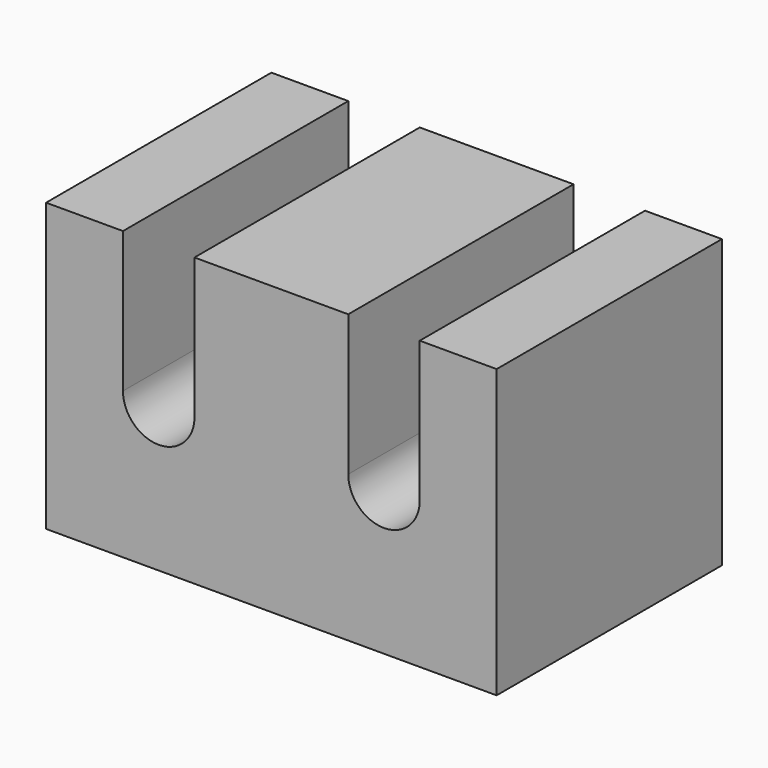
from build123d import *

# Parameters (mm, degrees)
F0_W     = 8
F0_H     = 5
F1_DEPTH = 5.1
F3_DEPTH = 25


with BuildPart() as f1:
    # F0 (on Top) → F1 (new body)
    with BuildSketch(Plane.XY):
        Rectangle(F0_W, F0_H)
    extrude(amount=F1_DEPTH)

    # F2 (on face) → F3 (cut)
    with BuildSketch(Plane.XZ.offset(2.5)):
        with BuildLine():
            Line((2, 5.1), (1.365302, 5.1))
            Line((1.365302, 5.1), (1.365302, 2.6))
            ThreePointArc((1.365302, 2.6), (1.551201, 3.048799), (2, 3.234698))
            Line((2, 3.234698), (2, 5.1))
        make_face()
        with BuildLine():
            Line((-1.365302, 2.6), (-1.365302, 5.1))
            Line((-1.365302, 5.1), (-2, 5.1))
            Line((-2, 5.1), (-2.634698, 5.1))
            Line((-2.634698, 5.1), (-2.634698, 2.6))
            ThreePointArc((-2.634698, 2.6), (-2, 3.234698), (-1.365302, 2.6))
        make_face()
        with BuildLine():
            Line((2.634698, 5.1), (2, 5.1))
            Line((2, 5.1), (2, 3.234698))
            ThreePointArc((2, 3.234698), (2.448799, 3.048799), (2.634698, 2.6))
            Line((2.634698, 2.6), (2.634698, 5.1))
        make_face()
        with BuildLine():
            ThreePointArc((2, 3.234698), (1.551201, 3.048799), (1.365302, 2.6))
            ThreePointArc((1.365302, 2.6), (2, 1.965302), (2.634698, 2.6))
            ThreePointArc((2.634698, 2.6), (2.448799, 3.048799), (2, 3.234698))
        make_face()
        with BuildLine():
            ThreePointArc((-2.634698, 2.6), (-2, 1.965302), (-1.365302, 2.6))
            ThreePointArc((-1.365302, 2.6), (-2, 3.234698), (-2.634698, 2.6))
        make_face()
    extrude(amount=-F3_DEPTH, mode=Mode.SUBTRACT)


solid = f1.part
